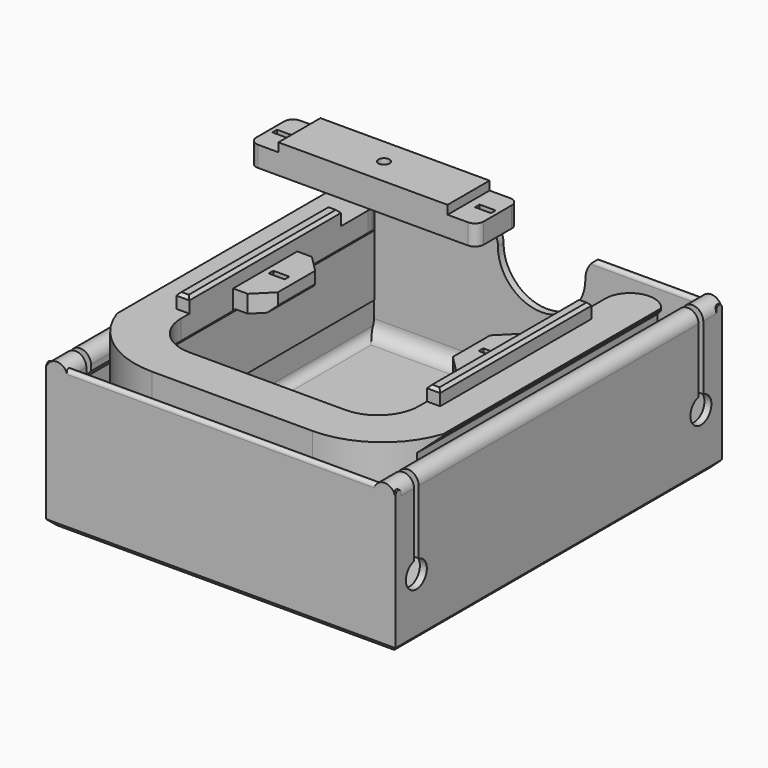
from build123d import *

# Parameters (mm, degrees)
SKETCH001_W          = 5.5
SKETCH001_H          = 2
PAD_DEPTH            = 30
SKETCH002_W          = 4.5
SKETCH002_H          = 65
PAD001_DEPTH         = 5
CHAMFER_SIZE         = 1
POCKET_DEPTH         = 52.376
POCKET_DEPTH_BACK    = 65.001
POCKET001_DEPTH      = 100
POCKET001_DEPTH_BACK = 40
PAD002_DEPTH         = 70
PAD003_DEPTH         = 59.9
POCKET002_DEPTH      = 442.118373
POCKET002_DEPTH_BACK = 442.118373
POCKET003_DEPTH      = 70.001
CHAMFER001_SIZE      = 2
SKETCH009_R          = 1.9
SKETCH009_W          = 5.5
SKETCH009_H          = 2
PAD004_DEPTH         = 10
POCKET004_DEPTH      = 9.001
POCKET004_DEPTH_BACK = 9.001


with BuildPart() as halter:
    # Sketch001 → Pad (new body)
    with BuildSketch(Plane.XY):
        with BuildLine():
            Line((-40.75, 44), (-40.75, 13.75))
            Line((-40.75, 13.75), (-35.75, 13.75))
            Line((-35.75, 13.75), (-30, 8))
            Line((-30, 8), (-30, -8))
            Line((-30, -8), (-35.75, -13.75))
            Line((-35.75, -13.75), (-40.75, -13.75))
            Line((-40.75, -13.75), (-40.75, -36))
            ThreePointArc((-40.75, -36), (-36.649495, -45.899495), (-26.75, -50))
            Line((-26.75, -50), (26.75, -50))
            ThreePointArc((26.75, -50), (36.649495, -45.899495), (40.75, -36))
            Line((40.75, -36), (40.75, -13.75))
            Line((40.75, -13.75), (35.75, -13.75))
            Line((35.75, -13.75), (30, -8))
            Line((30, -8), (30, 8))
            Line((30, 8), (35.75, 13.75))
            Line((35.75, 13.75), (40.75, 13.75))
            Line((40.75, 13.75), (40.75, 44))
            ThreePointArc((57.5, 44), (49.125, 52.375), (40.75, 44))
            Line((57.5, 44), (57.5, -35))
            ThreePointArc((27.5, -65), (48.713203, -56.213203), (57.5, -35))
            Line((27.5, -65), (-27.5, -65))
            ThreePointArc((-57.5, -35), (-48.713203, -56.213203), (-27.5, -65))
            Line((-57.5, -35), (-57.5, 44))
            ThreePointArc((-40.75, 44), (-49.125, 52.375), (-57.5, 44))
        make_face()
        with Locations((-36, 0)):
            Rectangle(SKETCH001_W, SKETCH001_H, mode=Mode.SUBTRACT)
        with Locations((36, 0)):
            Rectangle(SKETCH001_W, SKETCH001_H, mode=Mode.SUBTRACT)
    extrude(amount=-PAD_DEPTH)

    # Sketch002 → Pad001 (join)
    with BuildSketch(Plane.XY):
        with Locations((-43, 0)):
            Rectangle(SKETCH002_W, SKETCH002_H)
        with Locations((43, 0)):
            Rectangle(SKETCH002_W, SKETCH002_H)
    extrude(amount=PAD001_DEPTH)

    # Chamfer
    chamfer_edges = [halter.edges().sort_by_distance(p)[0] for p in [
        (43, 32.5, 5),
        (45.25, 0, 5),
        (43, -32.5, 5),
        (40.75, 0, 5),
        (-43, 32.5, 5),
        (-40.75, 0, 5),
        (-43, -32.5, 5),
        (-45.25, 0, 5),
    ]]
    chamfer(chamfer_edges, length=CHAMFER_SIZE)

    # Sketch003 → Pocket (cut, two sides)
    with BuildSketch(Plane.XZ) as pocket_sk:
        Polygon((-100.425683, -54.833724), (-100.425683, 56.367616), (85.954578, 56.367616), (85.954578, -54.833724), (36.666276, -54.833724), (52.5, -39), (52.5, -27), (57.5, -22), (57.5, -15), (52.5, -10), (52.5, -4), (56.04, -0.46), (52.5, 18.541414), (-52.5, 18.541414), (-56.04, -0.46), (-52.5, -4), (-52.5, -10), (-57.5, -15), (-57.5, -22), (-52.5, -27), (-52.5, -39), (-36.666276, -54.833724), align=None)
    extrude(amount=-POCKET_DEPTH, mode=Mode.SUBTRACT)
    extrude(pocket_sk.sketch, amount=POCKET_DEPTH_BACK, mode=Mode.SUBTRACT)

    # Sketch004 → Pocket001 (cut, two sides)
    with BuildSketch(Plane.XZ) as pocket001_sk:
        Polygon((66.327872, -58.327872), (43, -35), (43, -9), (40, -6), (32, -6), (0, 26), (-32, -6), (-40, -6), (-43, -9), (-43, -35), (-66.327872, -58.327872), align=None)
    extrude(amount=-POCKET001_DEPTH, mode=Mode.SUBTRACT)
    extrude(pocket001_sk.sketch, amount=POCKET001_DEPTH_BACK, mode=Mode.SUBTRACT)


with BuildPart() as deckel:
    # Sketch005 → Pad002 (new body, symmetric)
    with BuildSketch(Plane.XZ):
        with BuildLine():
            Line((-57.5, -49.6), (-57.5, -15))
            Line((-57.5, -15), (-52.5, -10))
            Line((-52.5, -10), (-52.5, -8))
            ThreePointArc((-52.5, -8), (-56.2, -4.3), (-59.9, -8))
            Line((-59.9, -8), (-59.9, -55))
            Line((-59.9, -55), (59.9, -55))
            Line((59.9, -8), (59.9, -55))
            ThreePointArc((59.9, -8), (56.2, -4.3), (52.5, -8))
            Line((52.5, -10), (52.5, -8))
            Line((57.5, -15), (52.5, -10))
            Line((57.5, -49.6), (57.5, -15))
            ThreePointArc((54.5, -52.6), (56.62132, -51.72132), (57.5, -49.6))
            Line((54.5, -52.6), (-54.5, -52.6))
            ThreePointArc((-57.5, -49.6), (-56.62132, -51.72132), (-54.5, -52.6))
        make_face()
    extrude(amount=PAD002_DEPTH, both=True)

    # Sketch006 → Pad003 (join, symmetric)
    with BuildSketch(Plane.YZ):
        with BuildLine():
            Line((-70, -7), (-70, -55))
            Line((-70, -55), (70, -55))
            Line((70, -55), (70, -7))
            ThreePointArc((70, -7), (68.8, -5.8), (67.6, -7))
            Line((67.6, -7), (67.6, -47.6))
            ThreePointArc((62.6, -52.6), (66.135534, -51.135534), (67.6, -47.6))
            Line((62.6, -52.6), (-62.6, -52.6))
            ThreePointArc((-67.6, -47.6), (-66.135534, -51.135534), (-62.6, -52.6))
            Line((-67.6, -47.6), (-67.6, -7))
            ThreePointArc((-67.6, -7), (-68.8, -5.8), (-70, -7))
        make_face()
    extrude(amount=PAD003_DEPTH, both=True)

    # Sketch007 → Pocket002 (cut, two sides)
    with BuildSketch(Plane.YZ) as pocket002_sk:
        with BuildLine():
            ThreePointArc((-60, 20), (-61, 21), (-62, 20))
            Line((-62, 20), (-62, -30))
            ThreePointArc((-62, -30), (-61, -38.887482), (-60, -30))
            Line((-60, -30), (-60, 20))
        make_face()
    pocket002 = extrude(amount=-POCKET002_DEPTH, mode=Mode.SUBTRACT) + extrude(pocket002_sk.sketch, amount=POCKET002_DEPTH_BACK, mode=Mode.SUBTRACT)

    # Sketch008 → Pocket003 (cut, through all)
    with BuildSketch(Plane.XZ):
        with BuildLine():
            ThreePointArc((-15, -12), (0, -27), (15, -12))
            ThreePointArc((22.770865, -4.229135), (17.276034, -6.505169), (15, -12))
            Line((-22.770865, -4.229135), (22.770865, -4.229135))
            ThreePointArc((-15, -12), (-17.276034, -6.505169), (-22.770865, -4.229135))
        make_face()
    extrude(amount=-POCKET003_DEPTH, mode=Mode.SUBTRACT)

    # Chamfer001
    chamfer001_edges = [deckel.edges().sort_by_distance(p)[0] for p in [
        (-59.9, 0, -55),
        (59.9, 0, -55),
        (0, 70, -55),
        (0, -70, -55),
    ]]
    chamfer(chamfer001_edges, length=CHAMFER001_SIZE)

    # Mirrored: Pocket002 across Sketch007 V_Axis
    add(pocket002.mirror(Plane(origin=(0, 0, 0), x_dir=(1, 0, 0), z_dir=(0, 1, 0))), mode=Mode.SUBTRACT)


with BuildPart() as obj1:
    # Sketch009 → Pad004 (new body)
    with BuildSketch(Plane.XY):
        with BuildLine():
            ThreePointArc((-36, 9), (-38.12132, 8.12132), (-39, 6))
            Line((-39, -6), (-39, 6))
            ThreePointArc((-39, -6), (-38.12132, -8.12132), (-36, -9))
            Line((36, -9), (-36, -9))
            ThreePointArc((36, -9), (38.12132, -8.12132), (39, -6))
            Line((39, 6), (39, -6))
            ThreePointArc((39, 6), (38.12132, 8.12132), (36, 9))
            Line((-36, 9), (36, 9))
        make_face()
        Circle(SKETCH009_R, mode=Mode.SUBTRACT)
        with Locations((-34.75, 0)):
            Rectangle(SKETCH009_W, SKETCH009_H, mode=Mode.SUBTRACT)
        with Locations((34.75, 0)):
            Rectangle(SKETCH009_W, SKETCH009_H, mode=Mode.SUBTRACT)
    extrude(amount=PAD004_DEPTH)

    # Sketch010 → Pocket004 (cut, two sides)
    with BuildSketch(Plane.XZ) as pocket004_sk:
        Polygon((-60.475693, 7), (-29, 7), (-29, 16.403179), (29, 16.403179), (29, 7), (60.678555, 7), (60.678555, 33.263969), (-60.475693, 33.263969), align=None)
    extrude(amount=-POCKET004_DEPTH, mode=Mode.SUBTRACT)
    extrude(pocket004_sk.sketch, amount=POCKET004_DEPTH_BACK, mode=Mode.SUBTRACT)


with BuildPart() as obj1_1:
    # Body002 placement: moved
    add(obj1.part.moved(Location((0, 0, 36))))


solid = Compound([halter.part, deckel.part, obj1_1.part])
